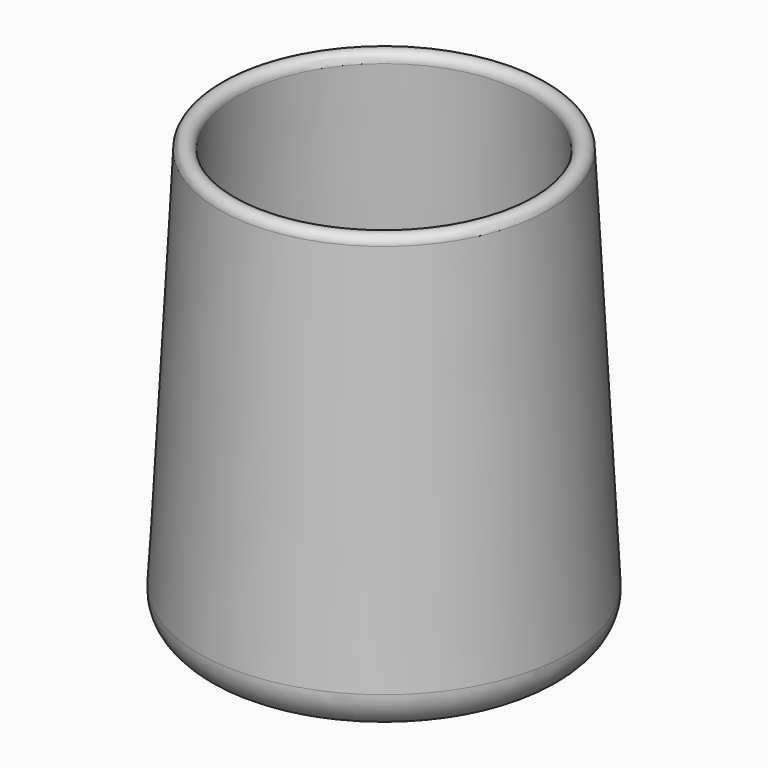
from build123d import *

# Parameters (mm, degrees)
F2_R = 9.525
F3_R = 5.08


with BuildPart() as f1:
    # F0 (on Front) → F1 (revolve)
    with BuildSketch(Plane.XZ):
        with BuildLine():
            Line((0, 2.54), (0, 0))
            Line((0, 0), (26.162, 0))
            Line((26.162, 0), (23.063575, 59.121467))
            ThreePointArc((23.063575, 59.121467), (21.728849, 60.32326), (20.527056, 58.988533))
            Line((20.527056, 58.988533), (23.485398, 2.54))
            Line((23.485398, 2.54), (0, 2.54))
        make_face()
    revolve(axis=Axis((0, 0, 30.1625), (0, 0, 1)))

    # F2
    f2_edges = [f1.edges().sort_by_distance(p)[0] for p in [
        (-23.485398, 0, 2.54),
    ]]
    fillet(f2_edges, radius=F2_R)

    # F3
    f3_edges = [f1.edges().sort_by_distance(p)[0] for p in [
        (-26.162, 0, 0),
    ]]
    fillet(f3_edges, radius=F3_R)


solid = f1.part
